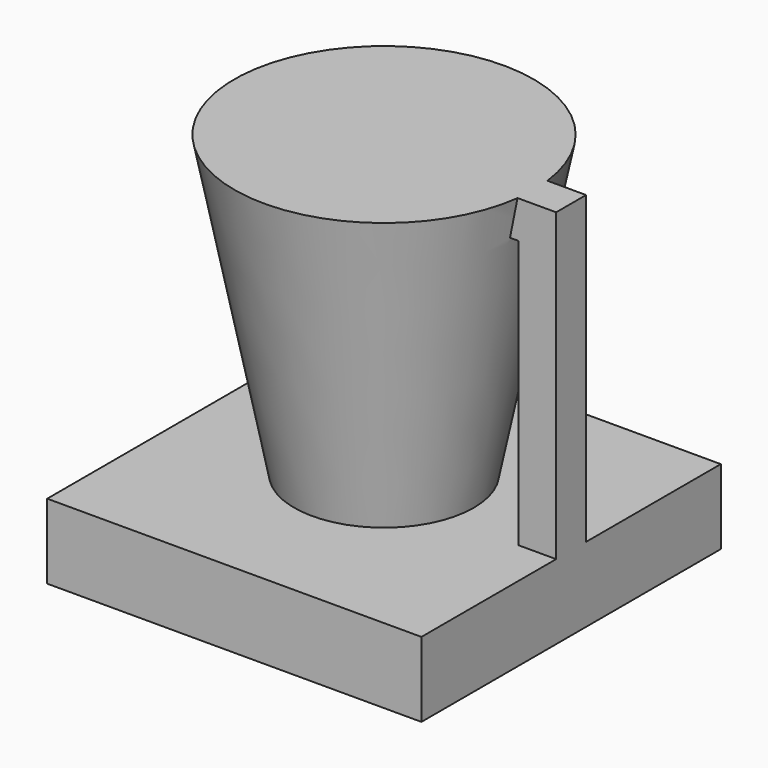
from build123d import *

# Parameters (mm, degrees)
F1_DEPTH = 25
F0_W     = 5
F0_H     = 35.8
F2_DEPTH = 2.5


with BuildPart() as f1:
    # F0 (on Front) → F1 (new body, symmetric)
    with BuildSketch(Plane.XZ):
        Polygon((20, 0), (-25, 0), (-25, -10), (25, -10), (25, 0), align=None)
    extrude(amount=F1_DEPTH, both=True)

    # F0 (on Front) → F2 (join, symmetric)
    with BuildSketch(Plane.XZ):
        with Locations((22.5, 17.9)):
            Rectangle(F0_W, F0_H)
        Polygon((19, 35.8), (20, 35.8), (25, 35.8), (25, 40.8), (20, 40.8), align=None)
        Polygon((0, 35.8), (19, 35.8), (20, 40.8), (0, 40.8), align=None)
    extrude(amount=F2_DEPTH, both=True)

    # F0 (on Front) → F3 (revolve)
    with BuildSketch(Plane.XZ):
        Polygon((12, 0.8), (19, 35.8), (0, 35.8), (0, 0.8), align=None)
        Polygon((0, 35.8), (19, 35.8), (20, 40.8), (0, 40.8), align=None)
    revolve(axis=Axis((0, 0, 20.8), (0, 0, -1)))


solid = f1.part
